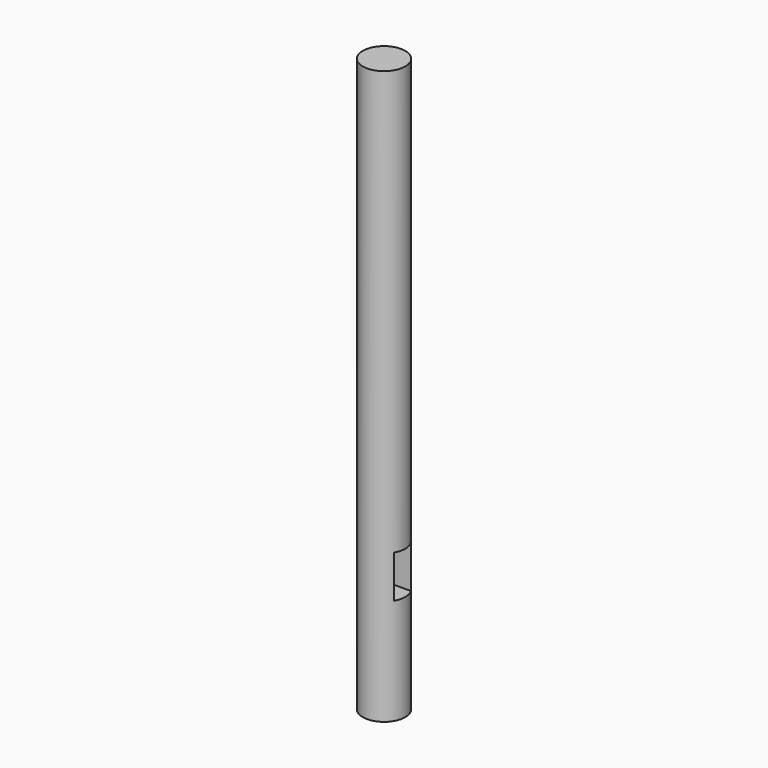
from build123d import *

# Parameters (mm, degrees)
F0_R     = 25.4
F1_DEPTH = 228.6
F2_DEPTH = 457.2
F5_W     = 25.4
F5_H     = 50.8
F6_DEPTH = 25.4


with BuildPart() as f1:
    # F0 (on Top) → F1 (new body)
    with BuildSketch(Plane.XY):
        Circle(F0_R)
    extrude(amount=F1_DEPTH)

    # F0 (on Top) → F2 (join)
    with BuildSketch(Plane.XY):
        Circle(F0_R)
    extrude(amount=-F2_DEPTH)

    # F5 (on face) → F6 (cut)
    with BuildSketch(Plane.YZ.offset(25.4)):
        with Locations((0, -305.080473)):
            Rectangle(F5_W, F5_H)
    extrude(amount=-F6_DEPTH, mode=Mode.SUBTRACT)


solid = f1.part
